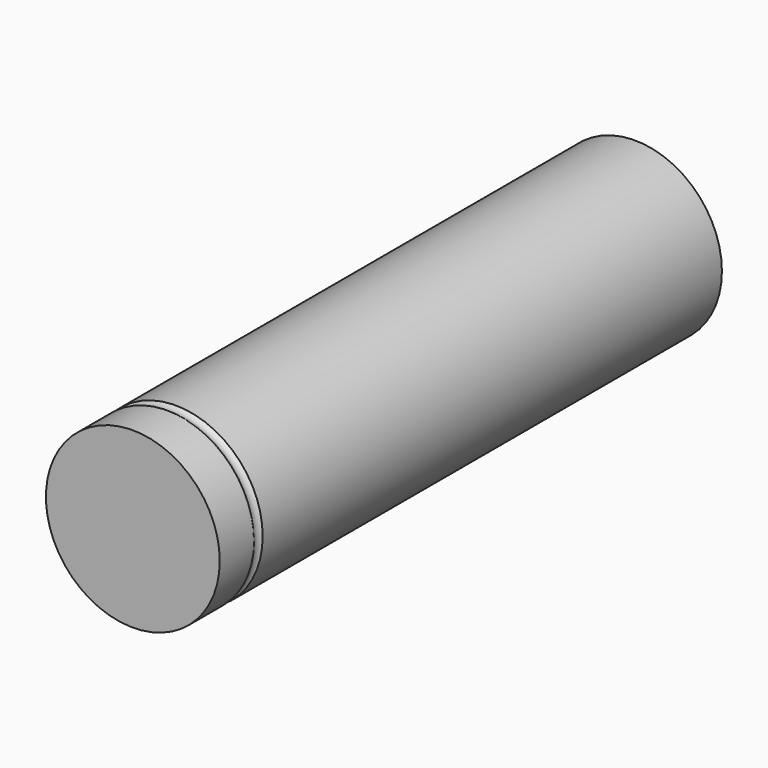
from build123d import *

# Parameters (mm, degrees)
TORUS_R                = 0.75
CYLINDER065_R          = 9
CYLINDER065_DEPTH      = 65
CUT093_PLACEMENT_ANGLE = 90


with BuildPart() as torus:
    # Torus → Torus (revolve)
    with BuildSketch(Plane(origin=(0, 0, 60), x_dir=(1, 0, 0), z_dir=(0, -1, 0))):
        with Locations((9.5, 0)):
            Circle(TORUS_R)
    revolve(axis=Axis((0, 0, 60), (0, 0, 1)))


with BuildPart() as cut093:
    # Cylinder065 → Cylinder065 (new body)
    with BuildSketch(Plane.XY):
        Circle(CYLINDER065_R)
    extrude(amount=CYLINDER065_DEPTH)

    # Cut093: cut Torus
    add(torus.part, mode=Mode.SUBTRACT)


with BuildPart() as cut093_1:
    # Cut093 placement: moved
    add(cut093.part.moved(Location((10, -230, -62))).rotate(Axis((10, -230, -62), (1, 0, 0)), CUT093_PLACEMENT_ANGLE))


solid = cut093_1.part
